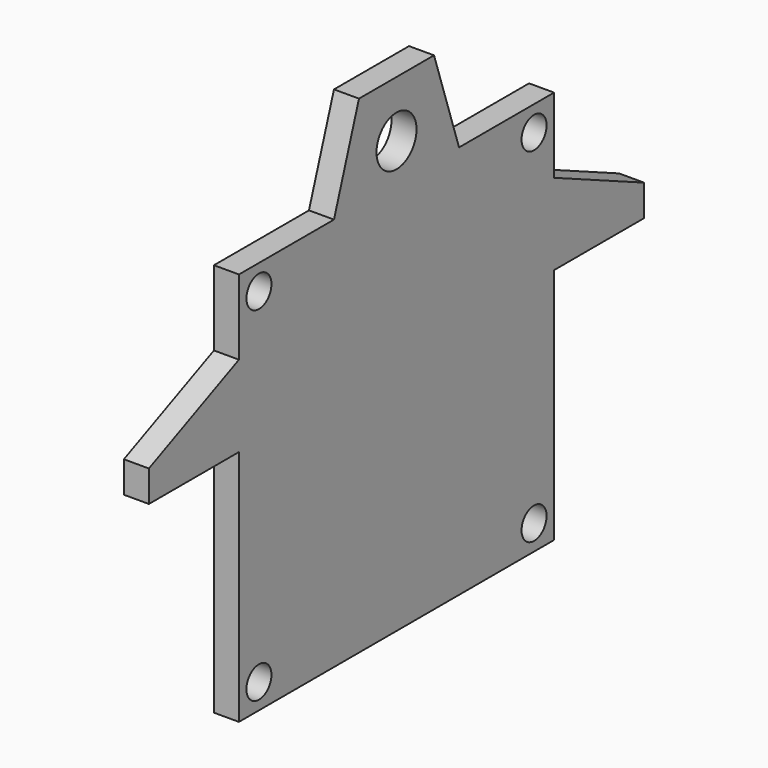
from build123d import *

# Parameters (mm, degrees)
F0_R     = 25
F0_R_2   = 40
F1_DEPTH = 40


with BuildPart() as f1:
    # F0 (on Right) → F1 (new body)
    with BuildSketch(Plane.YZ):
        Polygon((-125, 315), (-315, 315), (-315, 195), (-495, 115), (-495, 65), (-315, 65), (-315, -315), (-125, -315), (125, -315), (315, -315), (315, 65), (495, 65), (495, 115), (315, 195), (315, 315), (125, 315), (75, 465), (-75, 465), align=None)
        with Locations((-275, -275)):
            Circle(F0_R, mode=Mode.SUBTRACT)
        with Locations((275, -275)):
            Circle(F0_R, mode=Mode.SUBTRACT)
        with Locations((-275, 275)):
            Circle(F0_R, mode=Mode.SUBTRACT)
        with Locations((0, 375)):
            Circle(F0_R_2, mode=Mode.SUBTRACT)
        with Locations((275, 275)):
            Circle(F0_R, mode=Mode.SUBTRACT)
    extrude(amount=F1_DEPTH)


solid = f1.part
